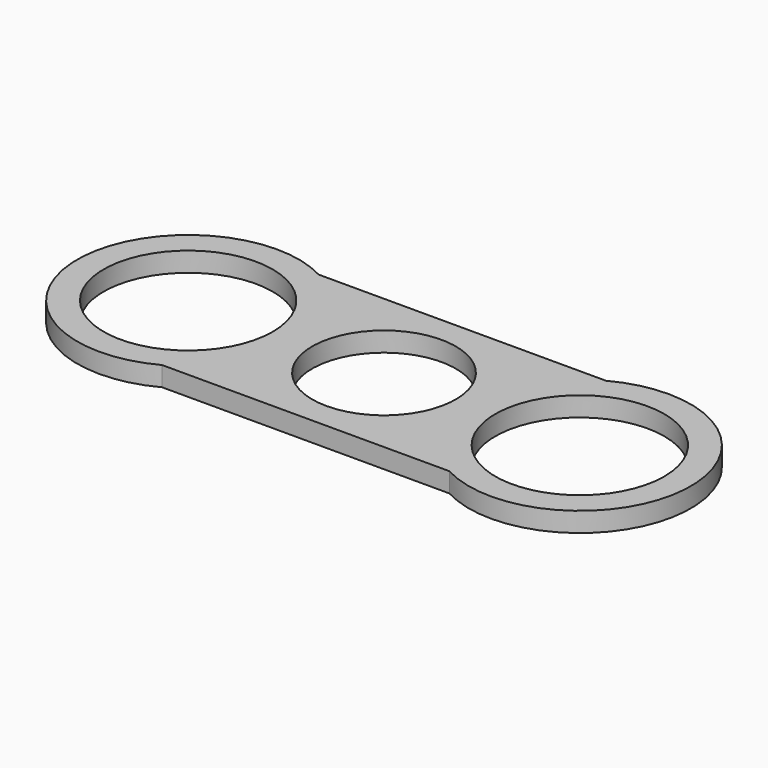
from build123d import *

# Parameters (mm, degrees)
F0_R     = 12.95
F1_DEPTH = 3


with BuildPart() as f1:
    # F0 (on Top) → F1 (new body)
    with BuildSketch(Plane.XY):
        with BuildLine():
            Line((-22, -15), (22, -15))
            ThreePointArc((22, -15), (47, 0), (22, 15))
            Line((22, 15), (-22, 15))
            ThreePointArc((-22, 15), (-47, 0), (-22, -15))
        make_face()
        with Locations((-30, 0)):
            Circle(F0_R, mode=Mode.SUBTRACT)
        with BuildLine():
            ThreePointArc((0, 11), (11, 0), (0, -11))
            ThreePointArc((0, -11), (-11, 0), (0, 11))
        make_face(mode=Mode.SUBTRACT)
        with Locations((30, 0)):
            Circle(F0_R, mode=Mode.SUBTRACT)
    extrude(amount=F1_DEPTH)


solid = f1.part
